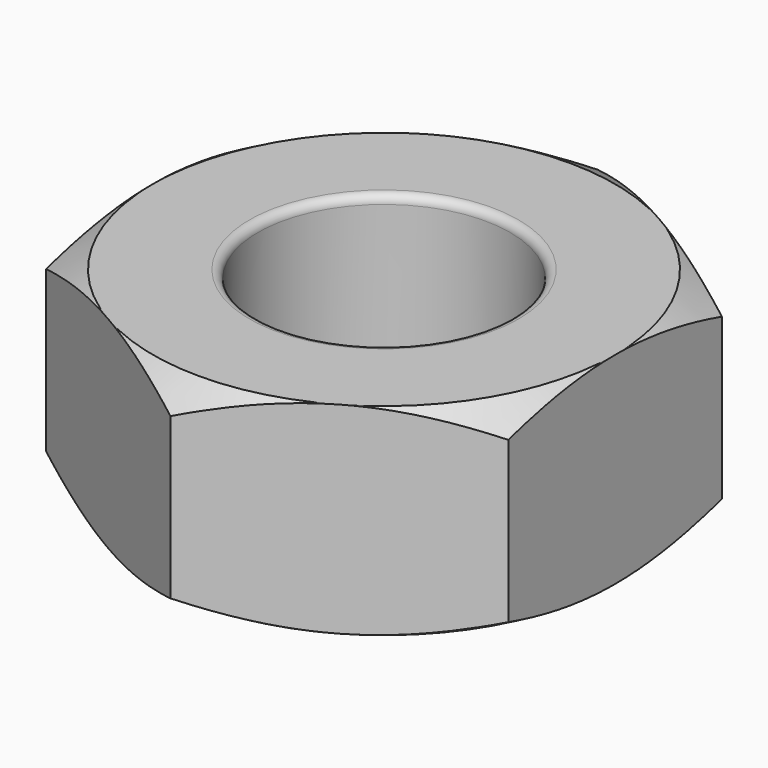
from build123d import *

# Parameters (mm, degrees)
F0_R     = 1.5
F1_DEPTH = 2.4
F4_R     = 0.1
F5_R     = 0.1


with BuildPart() as f1:
    # F0 (on Top) → F1 (new body)
    with BuildSketch(Plane.XY):
        Polygon((-2.75, -1.587713), (0, -3.175426), (2.75, -1.587713), (2.75, 1.587713), (0, 3.175426), (-2.75, 1.587713), align=None)
        Circle(F0_R, mode=Mode.SUBTRACT)
    extrude(amount=F1_DEPTH)

    # F2 (on Front) → F3 (revolve, cut)
    with BuildSketch(Plane.XZ):
        Polygon((4.614809, 2.4), (2.75, 2.4), (4.614809, 1.323352), align=None)
        Polygon((4.614809, 1.076648), (2.75, 0), (4.614809, 0), align=None)
    revolve(axis=Axis((0, 0, 1.2), (0, 0, 1)), mode=Mode.SUBTRACT)

    # F4
    f4_edges = [f1.edges().sort_by_distance(p)[0] for p in [
        (-1.5, 0, 2.4),
    ]]
    fillet(f4_edges, radius=F4_R)

    # F5
    f5_edges = [f1.edges().sort_by_distance(p)[0] for p in [
        (-1.5, 0, 0),
    ]]
    fillet(f5_edges, radius=F5_R)


solid = f1.part
